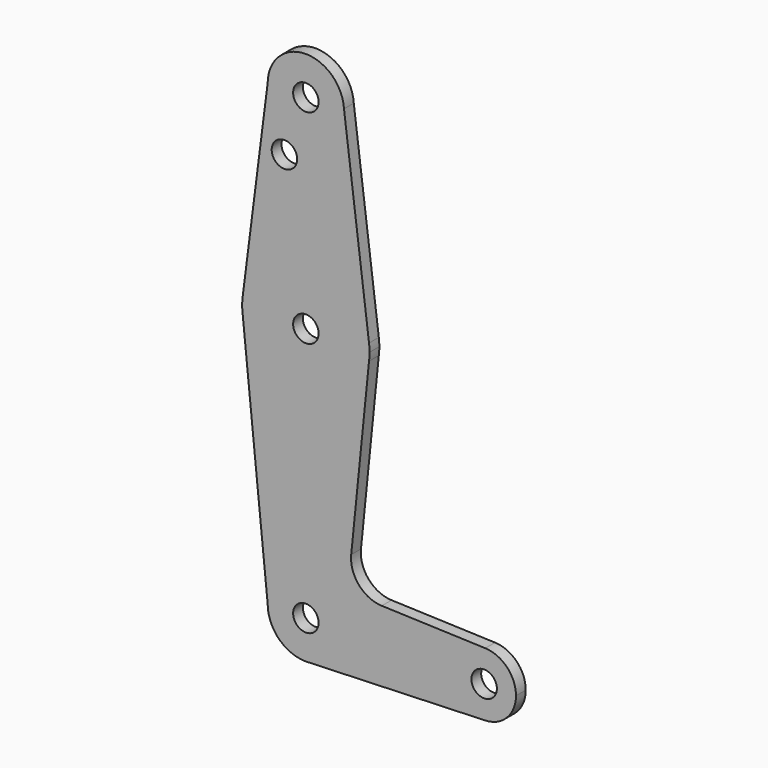
from build123d import *

# Parameters (mm, degrees)
F0_R     = 3.175
F1_DEPTH = 3.048


with BuildPart() as f1:
    # F0 (on Front) → F1 (new body)
    with BuildSketch(Plane.XZ):
        with BuildLine():
            ThreePointArc((15.749664, 4.533863), (15.843635, 5.527347), (15.875, 6.524772))
            ThreePointArc((15.875, 6.524772), (15.843635, 7.522196), (15.749664, 8.51568))
            ThreePointArc((15.749664, 8.51568), (0.007701, 22.39977), (-15.747725, 8.530959))
            ThreePointArc((-15.747725, 8.530959), (-15.875, 6.524772), (-15.747725, 4.518584))
            ThreePointArc((-15.747725, 4.518584), (0.007701, -9.350227), (15.749664, 4.533863))
        make_face()
        with Locations((0, 6.524772)):
            Circle(F0_R, mode=Mode.SUBTRACT)
        with BuildLine():
            ThreePointArc((-15.747725, 8.530959), (0.007701, 22.39977), (15.749664, 8.51568))
            Line((15.749664, 8.51568), (9.508159, 57.890935))
            ThreePointArc((9.508159, 57.890935), (9.520789, 57.607979), (9.525, 57.324772))
            ThreePointArc((9.525, 57.324772), (-0.026559, 47.799809), (-9.524852, 57.37789))
            Line((-9.524852, 57.37789), (-15.747725, 8.530959))
        make_face()
        with Locations((-5.340839, 43.049972)):
            Circle(F0_R, mode=Mode.SUBTRACT)
        with BuildLine():
            Line((11.30576, -39.378623), (15.749664, 4.533863))
            ThreePointArc((15.749664, 4.533863), (0.007701, -9.350227), (-15.747725, 4.518584))
            Line((-15.747725, 4.518584), (-9.525, -56.975228))
            ThreePointArc((-9.525, -56.975228), (0, -47.450228), (9.525, -56.975228))
            ThreePointArc((9.525, -56.975228), (6.970557, -63.466527), (0.677344, -66.476114))
            Line((0.677344, -66.476114), (44.732405, -64.907703))
            ThreePointArc((44.732405, -64.907703), (36.5125, -56.975228), (44.732405, -49.042754))
            Line((44.732405, -49.042754), (18.932703, -48.124255))
            ThreePointArc((18.932703, -48.124255), (13.223781, -45.404435), (11.30576, -39.378623))
        make_face()
        with BuildLine():
            ThreePointArc((9.525, 57.324772), (9.520789, 57.607979), (9.508159, 57.890935))
            ThreePointArc((9.508159, 57.890935), (-0.256658, 66.846313), (-9.524852, 57.37789))
            ThreePointArc((-9.524852, 57.37789), (-0.026559, 47.799809), (9.525, 57.324772))
        make_face()
        with Locations((0, 57.324772)):
            Circle(F0_R, mode=Mode.SUBTRACT)
        with BuildLine():
            ThreePointArc((9.525, -56.975228), (0, -47.450228), (-9.525, -56.975228))
            ThreePointArc((-9.525, -56.975228), (-6.735192, -63.71042), (0, -66.500228))
            Line((0, -66.500228), (0.677344, -66.476114))
            ThreePointArc((0.677344, -66.476114), (6.970557, -63.466527), (9.525, -56.975228))
        make_face()
        with Locations((0, -56.975228)):
            Circle(F0_R, mode=Mode.SUBTRACT)
        with BuildLine():
            Line((0.677344, -66.476114), (0, -66.500228))
            ThreePointArc((0, -66.500228), (0.338886, -66.494198), (0.677344, -66.476114))
        make_face()
        with BuildLine():
            ThreePointArc((52.3875, -56.975228), (50.161633, -51.463318), (44.732405, -49.042754))
            ThreePointArc((44.732405, -49.042754), (36.5125, -56.975228), (44.732405, -64.907703))
            ThreePointArc((44.732405, -64.907703), (50.161633, -62.487139), (52.3875, -56.975228))
        make_face()
        with Locations((44.45, -56.975228)):
            Circle(F0_R, mode=Mode.SUBTRACT)
    extrude(amount=F1_DEPTH)


solid = f1.part
